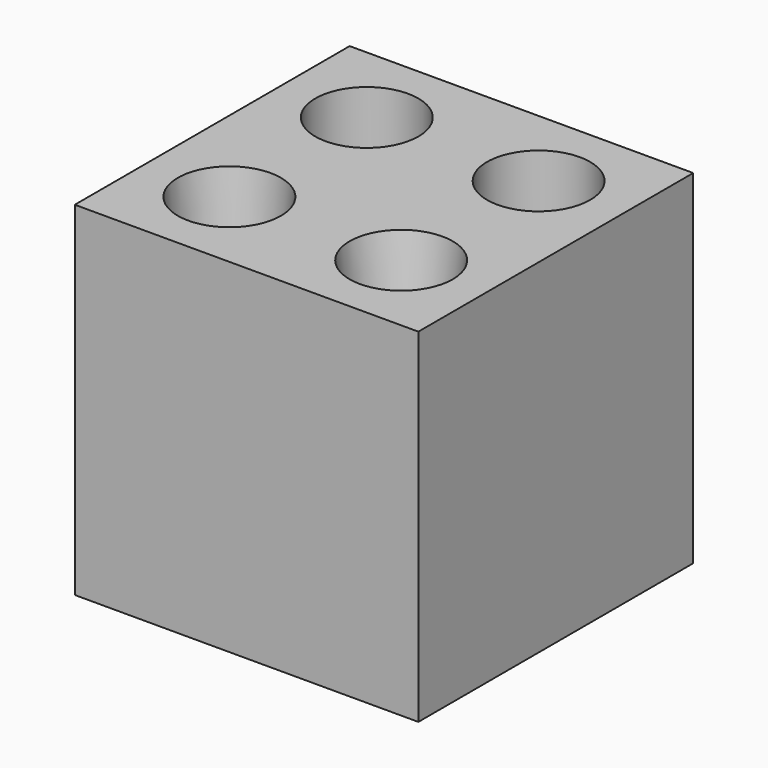
from build123d import *

# Parameters (mm, degrees)
SKETCH_W     = 200
SKETCH_H     = 200
SKETCH_R     = 30
PAD_DEPTH    = 200
SKETCH001_R  = 30
POCKET_DEPTH = 100
SKETCH002_R  = 30
SKETCH003_R  = 10
SKETCH004_R  = 30
SKETCH005_R  = 10


with BuildPart() as part:
    # Sketch → Pad (new body)
    with BuildSketch(Plane.XY):
        Rectangle(SKETCH_W, SKETCH_H)
        with Locations((50, 50)):
            Circle(SKETCH_R, mode=Mode.SUBTRACT)
    extrude(amount=PAD_DEPTH)

    # Sketch001 (on Face7 of Pad) → Pocket (cut)
    with BuildSketch(Plane.XY.offset(200)):
        with Locations((-50, 50)):
            Circle(SKETCH001_R)
    extrude(amount=-POCKET_DEPTH, mode=Mode.SUBTRACT)

    # Sketch002 (on Face5 of Pocket) → SubtractiveLoft section 0
    with BuildSketch(Plane.XY.offset(200)):
        with Locations((-50, -50)):
            Circle(SKETCH002_R)
    # Sketch003 (on Face4 of Pocket) → SubtractiveLoft section 1
    with BuildSketch(Plane(origin=(0, 0, 0), x_dir=(1, 0, 0), z_dir=(0, 0, -1))):
        with Locations((-50, 50)):
            Circle(SKETCH003_R)
    loft(mode=Mode.SUBTRACT)

    # Sketch004 (on Face5 of SubtractiveLoft) → SubtractiveLoft001 section 0
    with BuildSketch(Plane.XY.offset(200)):
        with Locations((50, -50)):
            Circle(SKETCH004_R)
    # Sketch005 (on Face4 of SubtractiveLoft) → SubtractiveLoft001 section 1
    with BuildSketch(Plane(origin=(0, 0, 50), x_dir=(1, 0, 0), z_dir=(0, 0, -1))):
        with Locations((50, 50)):
            Circle(SKETCH005_R)
    loft(mode=Mode.SUBTRACT)


solid = part.part
